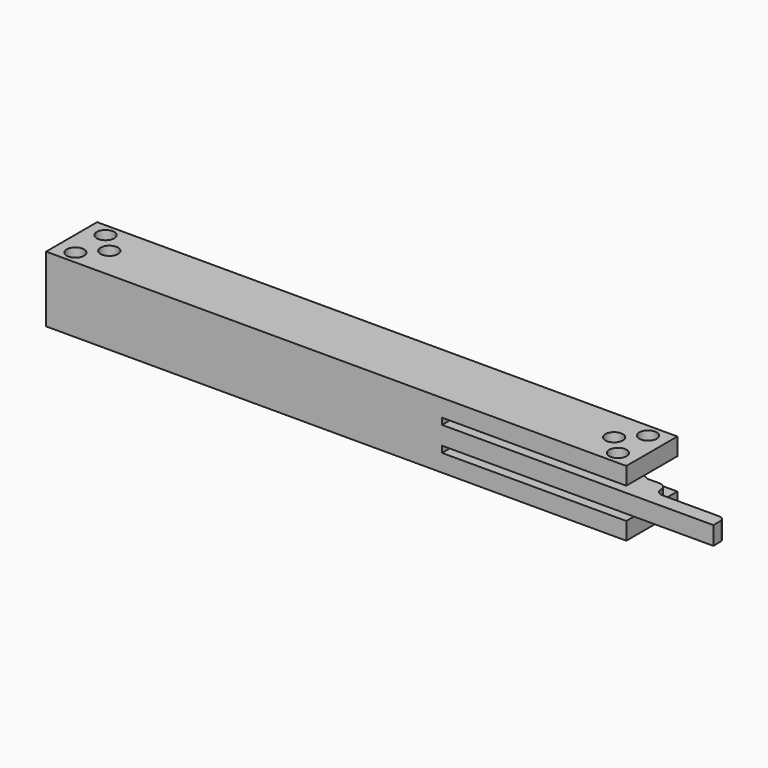
from build123d import *

# Parameters (mm, degrees)
SKETCH008_W     = 100
SKETCH008_H     = 11
PAD006_DEPTH    = 3
PAD007_DEPTH    = 5.35
SKETCH010_W     = 100
SKETCH010_H     = 11
PAD008_DEPTH    = 3
POCKET002_DEPTH = 5.35
FILLET005_R     = 1.23
FILLET006_R     = 1
SKETCH014_W     = 46.756413
SKETCH014_H     = 1.1
POCKET004_DEPTH = 12
FILLET007_R     = 1
SKETCH015_R     = 1.5
POCKET005_DEPTH = 2
SKETCH018_W     = 1
SKETCH018_H     = 6
PAD011_DEPTH    = 5.35


with BuildPart() as part:
    # Sketch008 → Pad006 (new body)
    with BuildSketch(Plane.XY):
        with Locations((-6.250698, -12.758651)):
            Rectangle(SKETCH008_W, SKETCH008_H)
    extrude(amount=PAD006_DEPTH)

    # Sketch009 (on Face6 of Pad006) → Pad007 (join)
    with BuildSketch(Plane.XY.offset(3)):
        Polygon((-56.250698, -13.258651), (33.992889, -13.258651), (33.992889, -9.258651), (43.492889, -13.258651), (46.749302, -13.258651), (46.749302, -15.758651), (58.749302, -15.758651), (58.749302, -18.258651), (-56.250698, -18.258651), align=None)
    extrude(amount=PAD007_DEPTH)

    # Sketch010 (on Face14 of Pad007) → Pad008 (join)
    with BuildSketch(Plane.XY.offset(8.35)):
        with Locations((-6.250698, -12.758651)):
            Rectangle(SKETCH010_W, SKETCH010_H)
    extrude(amount=PAD008_DEPTH)

    # Sketch011 (on Face14 of Pad007) → Pocket002 (cut)
    with BuildSketch(Plane.XY.offset(8.35)):
        Polygon((13.992889, -13.258651), (12.992889, -14.508651), (11.992889, -13.258651), align=None)
    extrude(amount=-POCKET002_DEPTH, mode=Mode.SUBTRACT)

    # Fillet005
    fillet005_edges = [part.edges().sort_by_distance(p)[0] for p in [
        (46.749302, -13.258651, 5.675),
        (46.749302, -15.758651, 5.675),
    ]]
    fillet(fillet005_edges, radius=FILLET005_R)

    # Fillet006
    fillet006_edges = [part.edges().sort_by_distance(p)[0] for p in [
        (58.749302, -15.758651, 5.675),
    ]]
    fillet(fillet006_edges, radius=FILLET006_R)

    # Sketch014 (on Face7 of Fillet006) → Pocket004 (cut)
    with BuildSketch(Plane.XZ.offset(18.258651)):
        with Locations((35.371096, 7.8)):
            Rectangle(SKETCH014_W, SKETCH014_H)
        with Locations((35.371096, 3.55)):
            Rectangle(SKETCH014_W, SKETCH014_H)
    extrude(amount=-POCKET004_DEPTH, mode=Mode.SUBTRACT)

    # Fillet007
    fillet007_edges = [part.edges().sort_by_distance(p)[0] for p in [
        (33.992889, -9.258651, 5.675),
    ]]
    fillet(fillet007_edges, radius=FILLET007_R)

    # Sketch015 (on Face34 of Fillet007) → Pocket005 (cut)
    with BuildSketch(Plane.XY.offset(11.35)):
        with Locations((-53.000698, -9.508651)):
            Circle(SKETCH015_R)
        with Locations((-49.750698, -12.758651)):
            Circle(SKETCH015_R)
        with Locations((-53.000698, -16.008651)):
            Circle(SKETCH015_R)
        with Locations((40.499302, -9.508651)):
            Circle(SKETCH015_R)
        with Locations((37.249302, -12.758651)):
            Circle(SKETCH015_R)
        with Locations((40.499302, -16.008651)):
            Circle(SKETCH015_R)
    pocket005 = extrude(amount=-POCKET005_DEPTH, mode=Mode.SUBTRACT)

    # Mirrored: Pocket005 across face of ReferencePlane
    add(pocket005.mirror(Plane(origin=(-57, -18, 5.5), x_dir=(1, 0, 0), z_dir=(0, 0, 1))), mode=Mode.SUBTRACT)

    # Sketch018 (on Face24 of Mirrored) → Pad011 (join)
    with BuildSketch(Plane.XY.offset(3)):
        with Locations((-55.750698, -10.258651)):
            Rectangle(SKETCH018_W, SKETCH018_H)
    extrude(amount=PAD011_DEPTH)


solid = part.part
